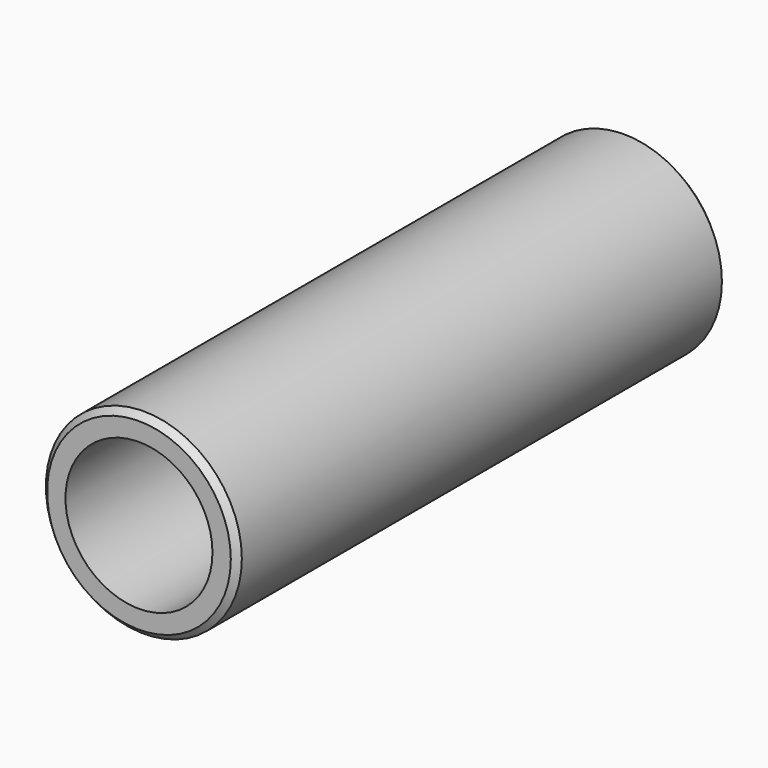
from build123d import *

# Parameters (mm, degrees)
F0_R     = 8
F0_R_2   = 6
F1_DEPTH = 50
F2_SIZE  = 0.5


with BuildPart() as f1:
    # F0 (on Front) → F1 (new body)
    with BuildSketch(Plane.XZ):
        Circle(F0_R)
        Circle(F0_R_2, mode=Mode.SUBTRACT)
    extrude(amount=F1_DEPTH)

    # F2
    f2_edges = [f1.edges().sort_by_distance(p)[0] for p in [
        (-8, -50, 0),
        (-8, 0, 0),
    ]]
    chamfer(f2_edges, length=F2_SIZE)


solid = f1.part
